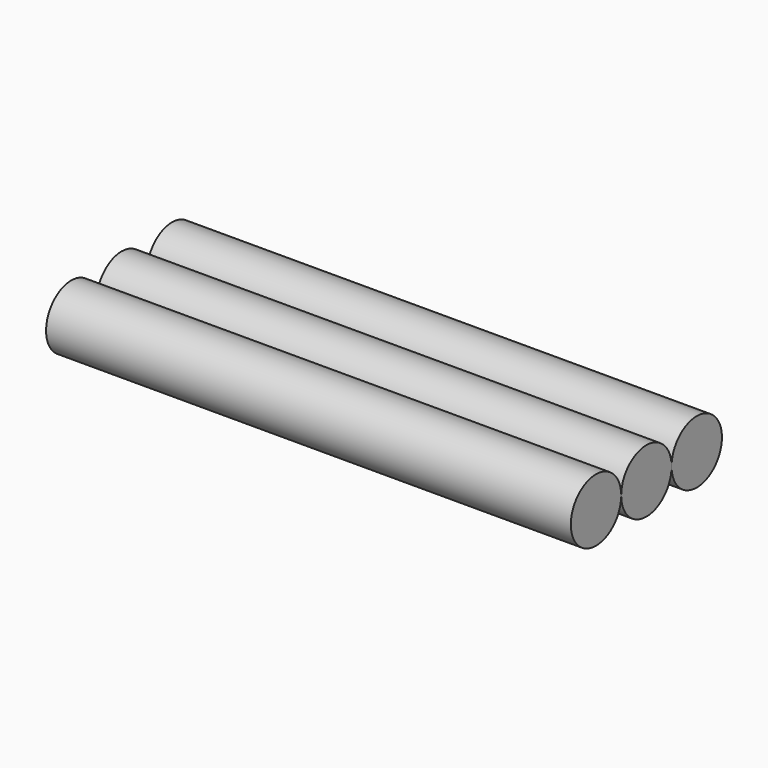
from build123d import *

# Parameters (mm, degrees)
CYLINDER002_R           = 0.6
CYLINDER002_DEPTH       = 10
CYLINDER002_PITCH_ANGLE = 90
CYLINDER_R              = 0.6
CYLINDER_DEPTH          = 10
CYLINDER_PITCH_ANGLE    = 90
CYLINDER001_R           = 0.6
CYLINDER001_DEPTH       = 10
CYLINDER001_PITCH_ANGLE = 90


with BuildPart() as obj1:
    # Cylinder002 → Cylinder002 (new body)
    with BuildSketch(Plane.XY):
        Circle(CYLINDER002_R)
    extrude(amount=CYLINDER002_DEPTH)


with BuildPart() as obj1_1:
    # Cylinder002 pitch: moved
    add(obj1.part.rotate(Axis((0, 0, 0), (0, 1, 0)), CYLINDER002_PITCH_ANGLE))


with BuildPart() as obj1_2:
    # Cylinder002 placement: moved
    add(obj1_1.part.moved(Location((0, -1.2, 0))))


with BuildPart() as white_wire:
    # Cylinder → Cylinder (new body)
    with BuildSketch(Plane.XY):
        Circle(CYLINDER_R)
    extrude(amount=CYLINDER_DEPTH)


with BuildPart() as white_wire_1:
    # Cylinder pitch: moved
    add(white_wire.part.rotate(Axis((0, 0, 0), (0, 1, 0)), CYLINDER_PITCH_ANGLE))


with BuildPart() as white_wire_2:
    # Cylinder placement: moved
    add(white_wire_1.part.moved(Location((0, 1.2, 0))))


with BuildPart() as servo_wires:
    # Cylinder001 → Cylinder001 (new body)
    with BuildSketch(Plane.XY):
        Circle(CYLINDER001_R)
    extrude(amount=CYLINDER001_DEPTH)


with BuildPart() as servo_wires_1:
    # Cylinder001 pitch: moved
    add(servo_wires.part.rotate(Axis((0, 0, 0), (0, 1, 0)), CYLINDER001_PITCH_ANGLE))


with BuildPart() as servo_wires_2:
    # Cylinder001 placement: moved
    add(servo_wires_1.part)

    # Fusion: union obj1, white-wire
    add(obj1_2.part)
    add(white_wire_2.part)


with BuildPart() as servo_wires_3:
    # Fusion placement: moved
    add(servo_wires_2.part.moved(Location((20, 0, 2.9))))


solid = servo_wires_3.part
